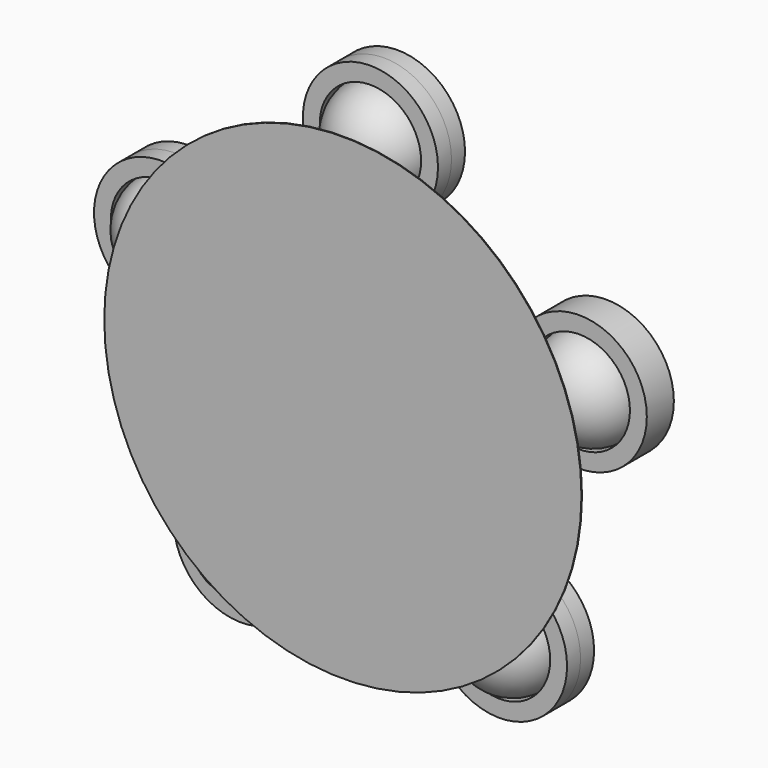
from build123d import *

# Parameters (mm, degrees)
F0_R     = 50.8
F0_R_2   = 38.1
F1_DEPTH = 12.7
F5_COUNT = 5
F7_R     = 179.401595
F8_DEPTH = 0.508


with BuildPart() as f1:
    # F0 (on Front) → F1 (new body, symmetric)
    with BuildSketch(Plane.XZ):
        with Locations((0, 165.1)):
            Circle(F0_R)
        with Locations((0, 165.1)):
            Circle(F0_R_2, mode=Mode.SUBTRACT)
        with Locations((-157.019431, 51.018706)):
            Circle(F0_R)
        with Locations((-157.019431, 51.018706)):
            Circle(F0_R_2, mode=Mode.SUBTRACT)
        with Locations((-97.043345, -133.568706)):
            Circle(F0_R)
        with Locations((-97.043345, -133.568706)):
            Circle(F0_R_2, mode=Mode.SUBTRACT)
        with Locations((97.043345, -133.568706)):
            Circle(F0_R)
        with Locations((97.043345, -133.568706)):
            Circle(F0_R_2, mode=Mode.SUBTRACT)
        with Locations((157.019431, 51.018706)):
            Circle(F0_R)
        with Locations((157.019431, 51.018706)):
            Circle(F0_R_2, mode=Mode.SUBTRACT)
    extrude(amount=F1_DEPTH, both=True)


with BuildPart() as f3:
    # F2 (on Front) → F3 (revolve)
    with BuildSketch(Plane.XZ):
        with BuildLine():
            Line((-157.019431, 12.918706), (-157.019431, 89.118706))
            ThreePointArc((-157.019431, 89.118706), (-195.119431, 51.018706), (-157.019431, 12.918706))
        make_face()
    revolve(axis=Axis((-157.019431, 0, 51.018706), (0, 0, -1)))


with BuildPart() as f5_1:
    # F5: instance of F3
    add(f3.part.rotate(Axis((0, -20.705942, 0), (0, -1, 0)), 1 * 360 / F5_COUNT))


with BuildPart() as f5_2:
    # F5: instance of F3
    add(f3.part.rotate(Axis((0, -20.705942, 0), (0, -1, 0)), 2 * 360 / F5_COUNT))


with BuildPart() as f5_3:
    # F5: instance of F3
    add(f3.part.rotate(Axis((0, -20.705942, 0), (0, -1, 0)), 3 * 360 / F5_COUNT))


with BuildPart() as f5_4:
    # F5: instance of F3
    add(f3.part.rotate(Axis((0, -20.705942, 0), (0, -1, 0)), 4 * 360 / F5_COUNT))


with BuildPart() as f8:
    # F7 (on offset) → F8 (new body)
    with BuildSketch(Plane.XZ.offset(38.1)):
        Circle(F7_R)
    extrude(amount=F8_DEPTH)


solid = Compound([f1.part, f3.part, f5_1.part, f5_2.part, f5_3.part, f5_4.part, f8.part])
